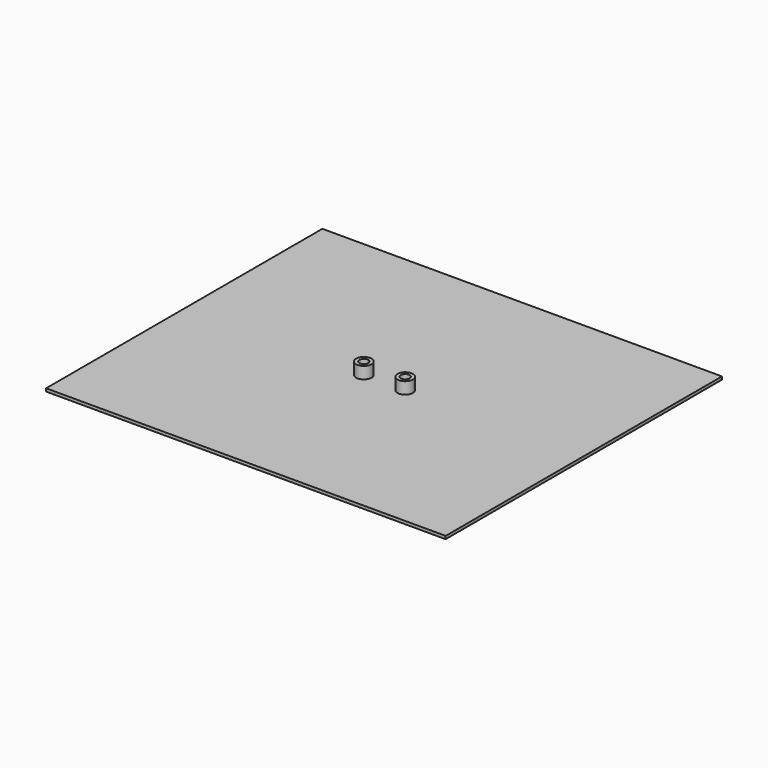
from build123d import *

# Parameters (mm, degrees)
F0_W     = 135.291382
F0_H     = 116.93953
F1_DEPTH = 1
F2_R     = 2.62
F2_R_2   = 1.5
F2_R_3   = 2.6
F3_DEPTH = 4


with BuildPart() as f1:
    # F0 (on Top) → F1 (new body)
    with BuildSketch(Plane.XY):
        Rectangle(F0_W, F0_H)
    extrude(amount=F1_DEPTH)

    # F2 (on face) → F3 (join)
    with BuildSketch(Plane.XY.offset(1)):
        with Locations((-6.825348, 0)):
            Circle(F2_R)
        with Locations((-6.825348, 0)):
            Circle(F2_R_2, mode=Mode.SUBTRACT)
        with Locations((7.174652, 0)):
            Circle(F2_R_3)
        with Locations((7.174652, 0)):
            Circle(F2_R_2, mode=Mode.SUBTRACT)
    extrude(amount=F3_DEPTH)


solid = f1.part
